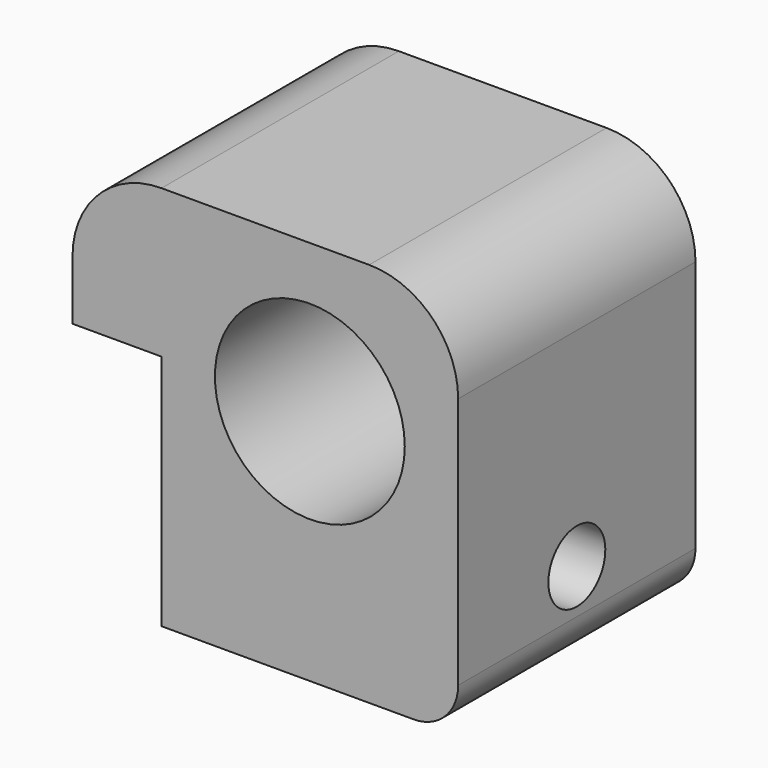
from build123d import *

# Parameters (mm, degrees)
CYLINDER045_R           = 3.2
CYLINDER045_DEPTH       = 156
CYLINDER045_ROLL_ANGLE  = 90
CYLINDER042_R           = 1.2
CYLINDER042_DEPTH       = 10
CYLINDER042_PITCH_ANGLE = 90
BOX028_W                = 3
BOX028_H                = 10
BOX028_DEPTH            = 8
BOX027_W                = 13
BOX027_H                = 10
BOX027_DEPTH            = 13
FILLET_R                = 3
FILLET001_R             = 1.5


with BuildPart() as cylinder045:
    # Cylinder045 → Cylinder045 (new body)
    with BuildSketch(Plane.XY):
        Circle(CYLINDER045_R)
    extrude(amount=CYLINDER045_DEPTH)


with BuildPart() as cylinder045_1:
    # Cylinder045 roll: moved
    add(cylinder045.part.rotate(Axis((0, 0, 0), (1, 0, 0)), CYLINDER045_ROLL_ANGLE))


with BuildPart() as cylinder045_2:
    # Cylinder045 placement: moved
    add(cylinder045_1.part.moved(Location((504, 118, 100))))


with BuildPart() as cylinder042:
    # Cylinder042 → Cylinder042 (new body)
    with BuildSketch(Plane.XY):
        Circle(CYLINDER042_R)
    extrude(amount=CYLINDER042_DEPTH)


with BuildPart() as cylinder042_1:
    # Cylinder042 pitch: moved
    add(cylinder042.part.rotate(Axis((0, 0, 0), (0, 1, 0)), CYLINDER042_PITCH_ANGLE))


with BuildPart() as cylinder042_2:
    # Cylinder042 placement: moved
    add(cylinder042_1.part.moved(Location((499, -33, 95))))


with BuildPart() as box028:
    # Box028 → Box028 (new body)
    with BuildSketch(Plane(origin=(499, -38, 92), x_dir=(1, 0, 0), z_dir=(0, 0, 1))):
        with Locations((1.5, 5)):
            Rectangle(BOX028_W, BOX028_H)
    extrude(amount=BOX028_DEPTH)


with BuildPart() as cut019:
    # Box027 → Box027 (new body)
    with BuildSketch(Plane(origin=(499, -38, 92), x_dir=(1, 0, 0), z_dir=(0, 0, 1))):
        with Locations((6.5, 5)):
            Rectangle(BOX027_W, BOX027_H)
    extrude(amount=BOX027_DEPTH)

    # Fillet
    fillet_edges = [cut019.edges().sort_by_distance(p)[0] for p in [
        (499, -33, 105),
        (512, -33, 105),
    ]]
    fillet(fillet_edges, radius=FILLET_R)

    # Fillet001
    fillet001_edges = [cut019.edges().sort_by_distance(p)[0] for p in [
        (512, -33, 92),
    ]]
    fillet(fillet001_edges, radius=FILLET001_R)

    # Cut016: cut Box028
    add(box028.part, mode=Mode.SUBTRACT)


with BuildPart() as cut019_1:
    # Cut016 placement: moved
    add(cut019.part.moved(Location((-3, 0, 0))))

    # Cut020: cut Cylinder042
    add(cylinder042_2.part, mode=Mode.SUBTRACT)

    # Cut019: cut Cylinder045
    add(cylinder045_2.part, mode=Mode.SUBTRACT)


with BuildPart() as cut019_2:
    # Cut019 placement: moved
    add(cut019_1.part.moved(Location((0, 146, 0))))


solid = cut019_2.part
